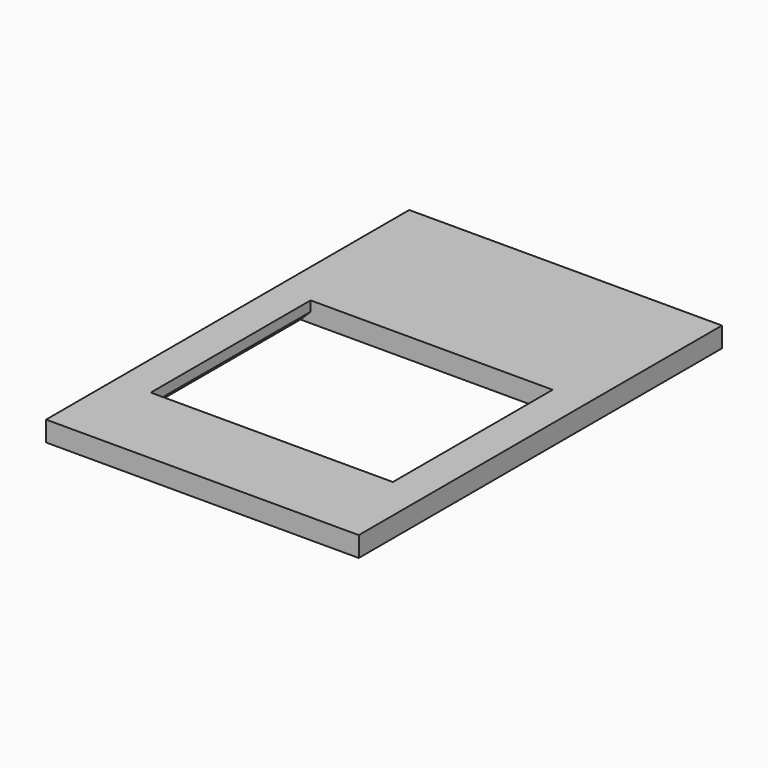
from build123d import *

# Parameters (mm, degrees)
BOX004_W     = 24
BOX004_H     = 19.8
BOX004_DEPTH = 2
BOX002_W     = 31
BOX002_H     = 45
BOX002_DEPTH = 2
CHAMFER_SIZE = 1


with BuildPart() as topplate_cutout:
    # Box004 → Box004 (new body)
    with BuildSketch(Plane(origin=(-12, 8.6, 5.5), x_dir=(1, 0, 0), z_dir=(0, 0, 1))):
        with Locations((12, 9.9)):
            Rectangle(BOX004_W, BOX004_H)
    extrude(amount=BOX004_DEPTH)


with BuildPart() as topplate:
    # Box002 → Box002 (new body)
    with BuildSketch(Plane(origin=(-15.5, 0, 5.5), x_dir=(1, 0, 0), z_dir=(0, 0, 1))):
        with Locations((15.5, 22.5)):
            Rectangle(BOX002_W, BOX002_H)
    extrude(amount=BOX002_DEPTH)

    # Cut014: cut topPlate_cutout
    add(topplate_cutout.part, mode=Mode.SUBTRACT)

    # Chamfer
    chamfer_edges = [topplate.edges().sort_by_distance(p)[0] for p in [
        (-12, 18.5, 5.5),
        (12, 18.5, 5.5),
    ]]
    chamfer(chamfer_edges, length=CHAMFER_SIZE)


solid = topplate.part
